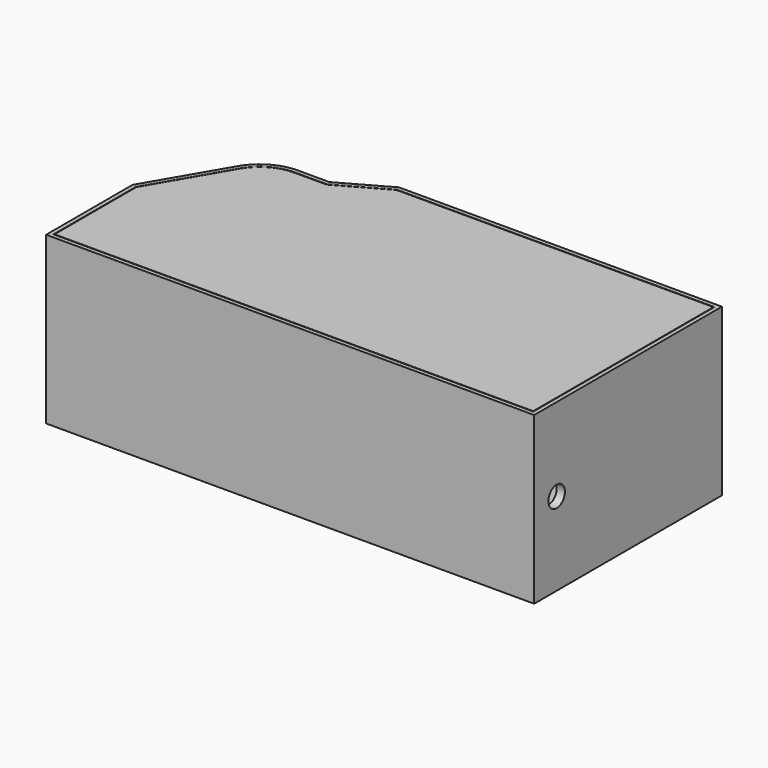
from build123d import *

# Parameters (mm, degrees)
F1_DEPTH = 72
F3_DEPTH = 4
F5_DEPTH = 4
F6_R     = 5
F7_DEPTH = 25
F9_DEPTH = 4


with BuildPart() as f1:
    # F0 (on Top) → F1 (new body)
    with BuildSketch(Plane.XY):
        with BuildLine():
            Line((-231, -4), (-170.1878618188, -4))
            Line((-170.1878618188, -4), (4, -4))
            Line((4, -4), (4, 109))
            Line((4, 109), (-151.5271144073, 109))
            Line((-151.5271144073, 109), (-174.586146194, 96.02858603))
            Line((-174.586146194, 96.02858603), (-189.7819859549, 96.02858603))
            ThreePointArc((-189.7819859549, 96.02858603), (-201.238369879, 92.9722884793), (-209.6500478789, 84.6156527591))
            Line((-209.6500478789, 84.6156527591), (-231, 48.0074083488))
            Line((-231, 48.0074083488), (-231, -4))
        make_face()
        with BuildLine():
            Line((0, 105), (0, 0))
            Line((0, 0), (-170.1878618188, 0))
            Line((-170.1878618188, 0), (-227, 0))
            Line((-227, 0), (-227, 46.9262242496))
            Line((-227, 46.9262242496), (-205.905340146, 83.0967252093))
            ThreePointArc((-205.905340146, 83.0967252093), (-199.3222877982, 89.6367009903), (-190.3564221185, 92.02858603))
            Line((-190.3564221185, 92.02858603), (-173.5382919705, 92.02858603))
            Line((-173.5382919705, 92.02858603), (-150.4792601838, 105))
            Line((-150.4792601838, 105), (0, 105))
        make_face(mode=Mode.SUBTRACT)
    extrude(amount=F1_DEPTH)

    # F2 (on Top) → F3 (join)
    with BuildSketch(Plane.XY):
        with BuildLine():
            Line((4, -4), (4, 109))
            Line((4, 109), (-151.5271144073, 109))
            Line((-151.5271144073, 109), (-174.586146194, 96.02858603))
            Line((-174.586146194, 96.02858603), (-189.7819859549, 96.02858603))
            ThreePointArc((-189.7819859549, 96.02858603), (-201.238369879, 92.9722884793), (-209.6500478789, 84.6156527591))
            Line((-209.6500478789, 84.6156527591), (-231, 48.0074083488))
            Line((-231, 48.0074083488), (-231, -4))
            Line((-231, -4), (4, -4))
        make_face()
    extrude(amount=-F3_DEPTH)

    # F4 (on face) → F5 (join)
    with BuildSketch(Plane.XY.offset(72)):
        with BuildLine():
            Line((4, -4), (4, 109))
            Line((4, 109), (-151.5271144073, 109))
            Line((-151.5271144073, 109), (-174.586146194, 96.02858603))
            Line((-174.586146194, 96.02858603), (-189.7819859549, 96.02858603))
            ThreePointArc((-189.7819859549, 96.02858603), (-201.238369879, 92.9722884793), (-209.6500478789, 84.6156527591))
            Line((-209.6500478789, 84.6156527591), (-231, 48.0074083488))
            Line((-231, 48.0074083488), (-231, -4))
            Line((-231, -4), (4, -4))
        make_face()
        with BuildLine():
            Line((2, 107), (2, -2))
            Line((2, -2), (-229, -2))
            Line((-229, -2), (-229, 47.4668162992))
            Line((-229, 47.4668162992), (-207.9223903203, 83.6080817392))
            ThreePointArc((-207.9223903203, 83.6080817392), (-200.2421625812, 91.2380534837), (-189.7819859549, 94.02858603))
            Line((-189.7819859549, 94.02858603), (-174.0622190822, 94.02858603))
            Line((-174.0622190822, 94.02858603), (-151.0031872955, 107))
            Line((-151.0031872955, 107), (2, 107))
        make_face(mode=Mode.SUBTRACT)
    extrude(amount=F5_DEPTH)

    # F6 (on face) → F7 (cut)
    with BuildSketch(Plane.YZ.offset(4)):
        with Locations((9.5232147723, 36)):
            Circle(F6_R)
    extrude(amount=-F7_DEPTH, mode=Mode.SUBTRACT)


with BuildPart() as f9:
    # F8 (on face) → F9 (new body)
    with BuildSketch(Plane.XY.offset(72)):
        with BuildLine():
            Line((-173.9967281933, 93.77858603), (-189.7819859549, 93.77858603))
            ThreePointArc((-189.7819859549, 93.77858603), (-200.117636669, 91.0212741092), (-207.7064331255, 83.4821353617))
            Line((-207.7064331255, 83.4821353617), (-228.75, 47.399242293))
            Line((-228.75, 47.399242293), (-228.75, -1.75))
            Line((-228.75, -1.75), (1.75, -1.75))
            Line((1.75, -1.75), (1.75, 106.75))
            Line((1.75, 106.75), (-150.9376964066, 106.75))
            Line((-150.9376964066, 106.75), (-173.9967281933, 93.77858603))
        make_face()
        with BuildLine():
            Line((-227, 46.9262242496), (-205.905340146, 83.0967252093))
            ThreePointArc((-205.905340146, 83.0967252093), (-199.3222877982, 89.6367009903), (-190.3564221185, 92.02858603))
            Line((-190.3564221185, 92.02858603), (-173.5382919705, 92.02858603))
            Line((-173.5382919705, 92.02858603), (-150.4792601838, 105))
            Line((-150.4792601838, 105), (0, 105))
            Line((0, 105), (0, 0))
            Line((0, 0), (-227, 0))
            Line((-227, 0), (-227, 46.9262242496))
        make_face(mode=Mode.SUBTRACT)
        with BuildLine():
            ThreePointArc((-190.3564221185, 92.02858603), (-199.3222877982, 89.6367009903), (-205.905340146, 83.0967252093))
            Line((-205.905340146, 83.0967252093), (-227, 46.9262242496))
            Line((-227, 46.9262242496), (-227, 0))
            Line((-227, 0), (0, 0))
            Line((0, 0), (0, 105))
            Line((0, 105), (-150.4792601838, 105))
            Line((-150.4792601838, 105), (-173.5382919705, 92.02858603))
            Line((-173.5382919705, 92.02858603), (-190.3564221185, 92.02858603))
        make_face()
    extrude(amount=F9_DEPTH)


solid = Compound([f1.part, f9.part])
